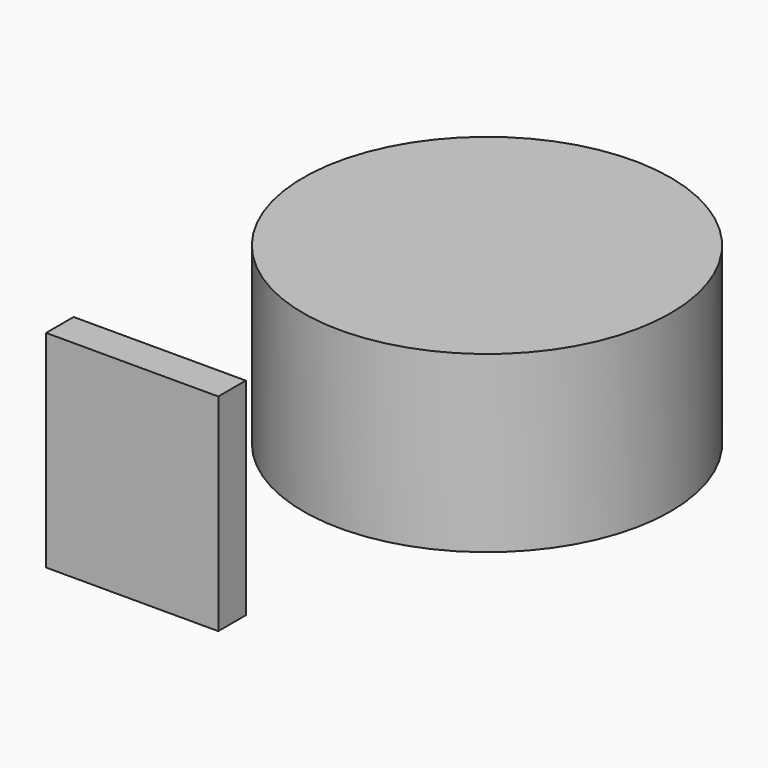
from build123d import *

# Parameters (mm, degrees)
F0_W     = 95.25
F0_H     = 114.3
F1_DEPTH = 19.05
F2_R     = 101.6
F3_DEPTH = 96.52


with BuildPart() as f1:
    # F0 (on Front) → F1 (new body)
    with BuildSketch(Plane.XZ):
        with Locations((-63.567628, -23.854257)):
            Rectangle(F0_W, F0_H)
    extrude(amount=F1_DEPTH)


with BuildPart() as f3:
    # F2 (on Top) → F3 (new body)
    with BuildSketch(Plane.XY):
        with Locations((62.285323, 68.988129)):
            Circle(F2_R)
    extrude(amount=F3_DEPTH)


solid = Compound([f1.part, f3.part])
